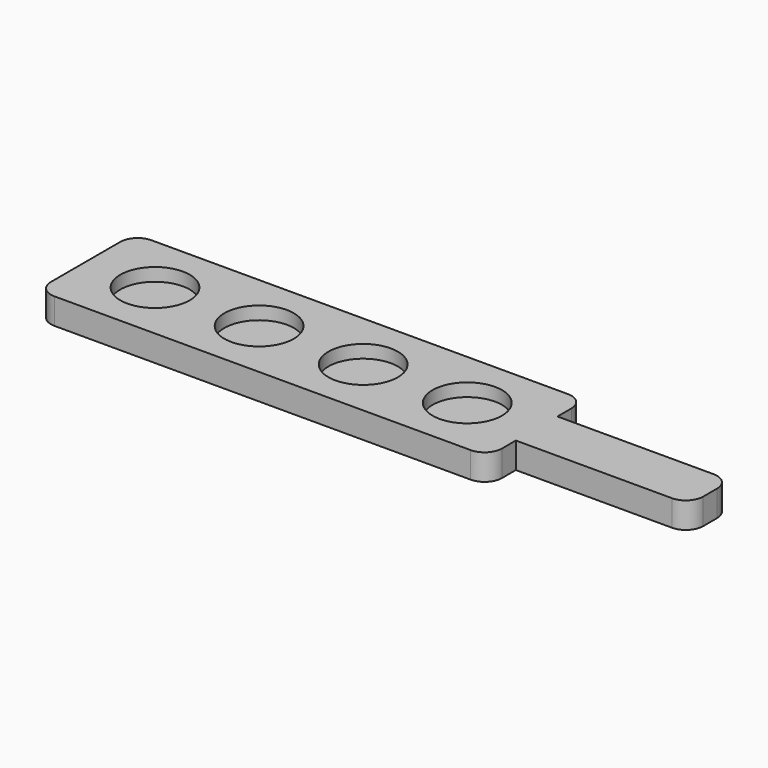
from build123d import *

# Parameters (mm, degrees)
F1_DEPTH = 19.05
F2_R     = 25.4
F3_DEPTH = 9.525
F4_R     = 12.7


with BuildPart() as f1:
    # F0 (on Top) → F1 (new body)
    with BuildSketch(Plane.XY):
        Polygon((-228.6, -44.45), (101.6, -44.45), (101.6, -19.05), (228.6, -19.05), (228.6, 19.05), (101.6, 19.05), (101.6, 44.45), (-228.6, 44.45), align=None)
    extrude(amount=F1_DEPTH)

    # F2 (on face) → F3 (cut)
    with BuildSketch(Plane.XY.offset(19.05)):
        with Locations((-177.8, 0)):
            Circle(F2_R)
        with Locations((-101.6, 0)):
            Circle(F2_R)
        with Locations((-25.4, 0)):
            Circle(F2_R)
        with Locations((50.8, 0)):
            Circle(F2_R)
    extrude(amount=-F3_DEPTH, mode=Mode.SUBTRACT)

    # F4
    f4_edges = [f1.edges().sort_by_distance(p)[0] for p in [
        (-228.6, -44.45, 9.525),
        (101.6, -44.45, 9.525),
        (101.6, 44.45, 9.525),
        (228.6, -19.05, 9.525),
        (228.6, 19.05, 9.525),
        (-228.6, 44.45, 9.525),
    ]]
    fillet(f4_edges, radius=F4_R)


solid = f1.part
